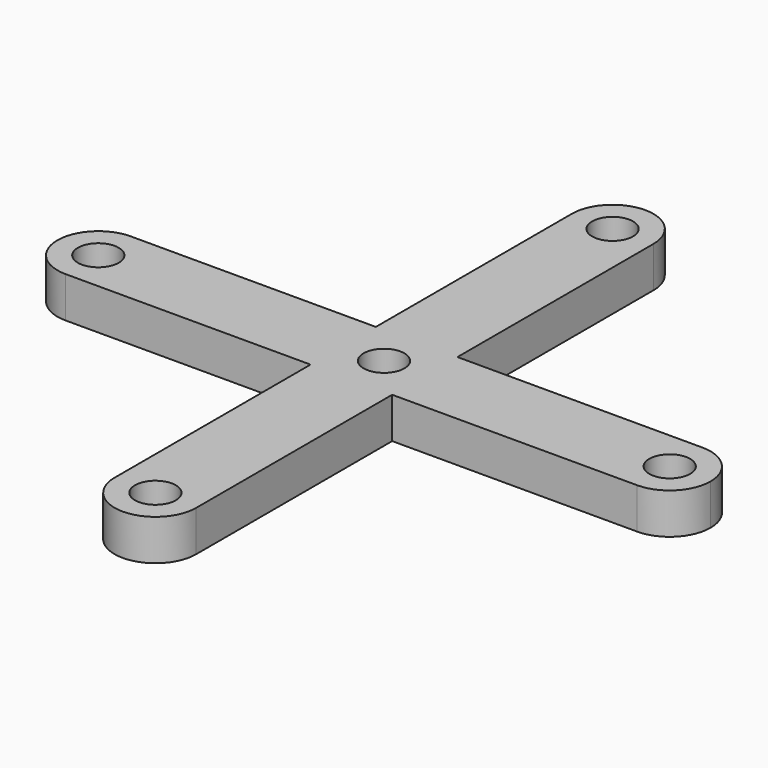
from build123d import *

# Parameters (mm, degrees)
F0_W     = 2
F0_H     = 2.0000000052
F0_R     = 0.5
F1_DEPTH = 1


with BuildPart() as f1:
    # F0 (on Top) → F1 (new body)
    with BuildSketch(Plane.XY):
        with BuildLine():
            Line((1, 1.0000000026), (1, 7))
            ThreePointArc((1, 7), (0, 6), (-1, 7))
            Line((-1, 7), (-1, 1.0000000026))
            Line((-1, 1.0000000026), (1, 1.0000000026))
        make_face()
        Rectangle(F0_W, F0_H)
        with Locations((0, 2.6e-09)):
            Circle(F0_R, mode=Mode.SUBTRACT)
        with BuildLine():
            ThreePointArc((-1, 7), (0, 6), (1, 7))
            ThreePointArc((1, 7), (0, 8), (-1, 7))
        make_face()
        with Locations((0, 7)):
            Circle(F0_R, mode=Mode.SUBTRACT)
        with BuildLine():
            Line((6.9999999974, 1.0000000026), (1, 1.0000000026))
            Line((1, 1.0000000026), (1, -1.0000000026))
            Line((1, -1.0000000026), (6.9999999974, -1.0000000026))
            ThreePointArc((6.9999999974, -0.9999999974), (5.9999999974, 2.6e-09), (6.9999999974, 1.0000000026))
        make_face()
        with BuildLine():
            ThreePointArc((7.9999999974, 2.6e-09), (7.7071067786, 0.7071067838), (6.9999999974, 1.0000000026))
            ThreePointArc((6.9999999974, 1.0000000026), (5.9999999974, 2.6e-09), (6.9999999974, -0.9999999974))
            ThreePointArc((6.9999999974, -0.9999999974), (7.7071067786, -0.7071067786), (7.9999999974, 2.6e-09))
        make_face()
        with Locations((6.9999999974, 2.6e-09)):
            Circle(F0_R, mode=Mode.SUBTRACT)
        with BuildLine():
            Line((-1, -1.0000000026), (-1, 1.0000000026))
            Line((-1, 1.0000000026), (-6.9999999974, 1.0000000026))
            ThreePointArc((-6.9999999974, 1.0000000026), (-6.2928932162, 0.7071067838), (-5.9999999974, 2.6e-09))
            ThreePointArc((-5.9999999974, 2.6e-09), (-6.2928932162, -0.7071067786), (-6.9999999974, -0.9999999974))
            Line((-6.9999999974, -1.0000000026), (-1, -1.0000000026))
        make_face()
        with BuildLine():
            ThreePointArc((-5.9999999974, 2.6e-09), (-6.2928932162, 0.7071067838), (-6.9999999974, 1.0000000026))
            ThreePointArc((-6.9999999974, 1.0000000026), (-7.9999999974, 2.6e-09), (-6.9999999974, -0.9999999974))
            ThreePointArc((-6.9999999974, -0.9999999974), (-6.2928932162, -0.7071067786), (-5.9999999974, 2.6e-09))
        make_face()
        with Locations((-6.9999999974, 2.6e-09)):
            Circle(F0_R, mode=Mode.SUBTRACT)
        with BuildLine():
            Line((1, -6.9999999948), (1, -1.0000000026))
            Line((1, -1.0000000026), (-1, -1.0000000026))
            Line((-1, -1.0000000026), (-1, -6.9999999948))
            ThreePointArc((-1, -6.9999999948), (0, -5.9999999948), (1, -6.9999999948))
        make_face()
        with BuildLine():
            ThreePointArc((-1, -6.9999999948), (0, -7.9999999948), (1, -6.9999999948))
            ThreePointArc((1, -6.9999999948), (0, -5.9999999948), (-1, -6.9999999948))
        make_face()
        with Locations((0, -6.9999999948)):
            Circle(F0_R, mode=Mode.SUBTRACT)
    extrude(amount=F1_DEPTH)


solid = f1.part
